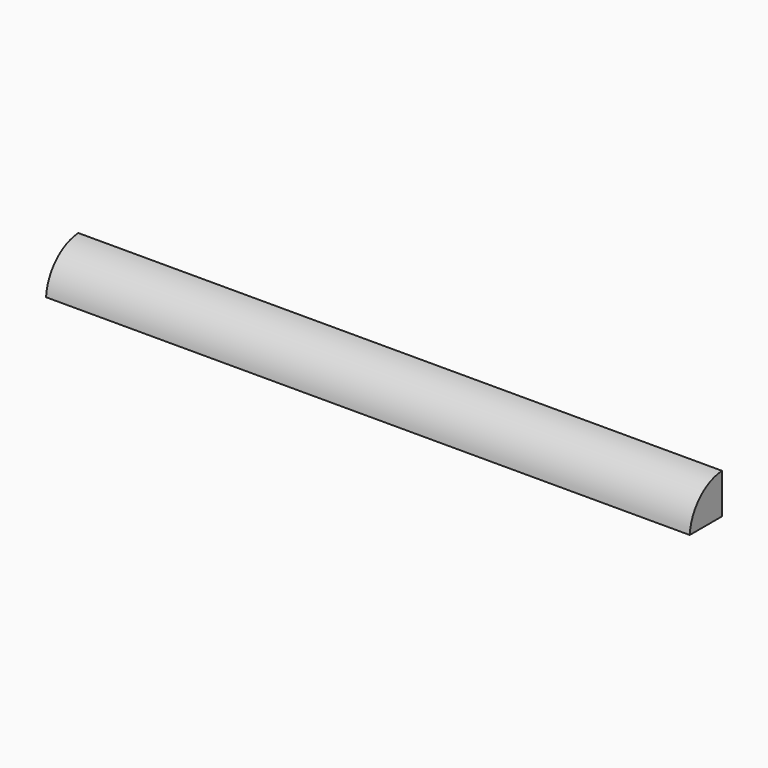
from build123d import *

# Parameters (mm, degrees)
F1_DEPTH = 76.2


with BuildPart() as f1:
    # F0 (on Right) → F1 (new body)
    with BuildSketch(Plane.YZ):
        with BuildLine():
            Line((-4.7625, 0), (0, 0))
            Line((0, 0), (0, 4.7625))
            ThreePointArc((0, 4.7625), (-3.277975, 3.277975), (-4.7625, 0))
        make_face()
    extrude(amount=F1_DEPTH)


solid = f1.part
